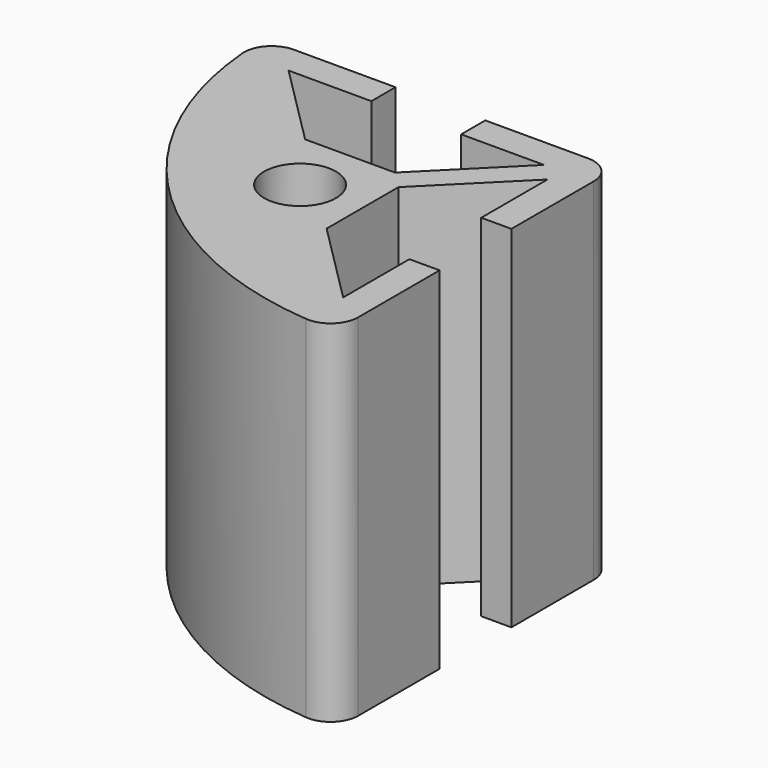
from build123d import *

# Parameters (mm, degrees)
SKETCH002_R     = 2.6035
PAD001_DEPTH    = 25.4
POCKET001_DEPTH = 25.401
FILLET001_R     = 2


with BuildPart() as part:
    # Sketch002 → Pad001 (new body)
    with BuildSketch(Plane.XY):
        with BuildLine():
            Line((12.7, -12.7), (12.7, 12.7))
            Line((12.7, 12.7), (-12.7, 12.7))
            ThreePointArc((-12.7, 12.7), (-5.260512, -5.260512), (12.7, -12.7))
        make_face()
        Circle(SKETCH002_R, mode=Mode.SUBTRACT)
    extrude(amount=PAD001_DEPTH)

    # Sketch003 (on Face6 of Pad001) → Pocket001 (cut, through all)
    with BuildSketch(Plane.XY.offset(25.4)):
        Polygon((-3.2512, 4.5212), (3.2512, 4.5212), (9.2456, 10.5156), (3.2512, 10.5156), (3.2512, 12.7), (-3.2512, 12.7), (-3.2512, 10.5156), (-9.2456, 10.5156), align=None)
        Polygon((4.5212, 3.2512), (4.5212, -3.2512), (10.5156, -9.2456), (10.5156, -3.2512), (12.7, -3.2512), (12.7, 3.2512), (10.5156, 3.2512), (10.5156, 9.2456), align=None)
    extrude(amount=-POCKET001_DEPTH, mode=Mode.SUBTRACT)

    # Fillet001
    fillet001_edges = [part.edges().sort_by_distance(p)[0] for p in [
        (12.7, 12.7, 12.7),
        (12.7, -12.7, 12.7),
        (-12.7, 12.7, 12.7),
    ]]
    fillet(fillet001_edges, radius=FILLET001_R)


solid = part.part
